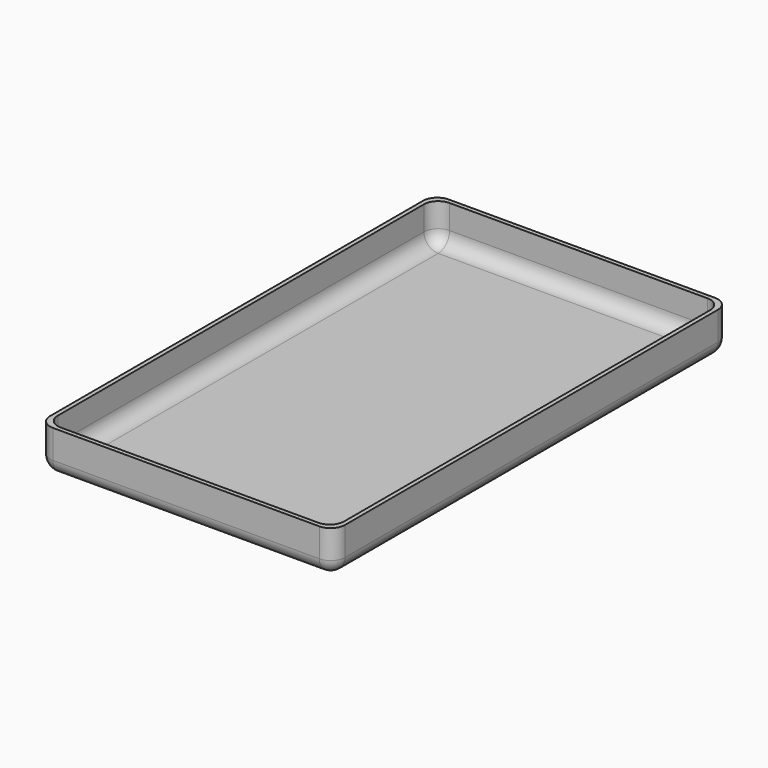
from build123d import *

# Parameters (mm, degrees)
F0_W     = 100.3
F0_H     = 170.3
F1_DEPTH = 1.5
F0_W_2   = 103.3
F0_H_2   = 173.3
F2_DEPTH = 15
F3_R     = 5
F4_W     = 15
F4_H     = 10
F5_DEPTH = 25


with BuildPart() as f1:
    # F0 (on Top) → F1 (new body)
    with BuildSketch(Plane.XY):
        with Locations((50.15, -85.15)):
            Rectangle(F0_W, F0_H)
    extrude(amount=F1_DEPTH)

    # F0 (on Top) → F2 (join)
    with BuildSketch(Plane.XY):
        with Locations((50.15, -85.15)):
            Rectangle(F0_W_2, F0_H_2)
        with Locations((50.15, -85.15)):
            Rectangle(F0_W, F0_H, mode=Mode.SUBTRACT)
    extrude(amount=F2_DEPTH)

    # F3
    f3_edges = [f1.edges().sort_by_distance(p)[0] for p in [
        (0, 0, 8.25),
        (101.8, 1.5, 7.5),
        (100.3, 0, 8.25),
        (-1.5, 1.5, 7.5),
        (100.3, -170.3, 8.25),
        (-1.5, -171.8, 7.5),
        (0, -170.3, 8.25),
        (101.8, -171.8, 7.5),
        (50.15, 1.5, 0),
        (-1.5, -85.15, 0),
        (50.15, -171.8, 0),
        (101.8, -85.15, 0),
        (50.15, 0, 1.5),
        (0, -85.15, 1.5),
        (50.15, -170.3, 1.5),
        (100.3, -85.15, 1.5),
    ]]
    fillet(f3_edges, radius=F3_R)

    # F4 (on face) → F5 (cut)
    with BuildSketch(Plane(origin=(0, 0, 0), x_dir=(1, 0, 0), z_dir=(0, 0, -1))):
        with Locations((16, 161.8)):
            Rectangle(F4_W, F4_H)
    extrude(amount=-F5_DEPTH, mode=Mode.SUBTRACT)


solid = f1.part
